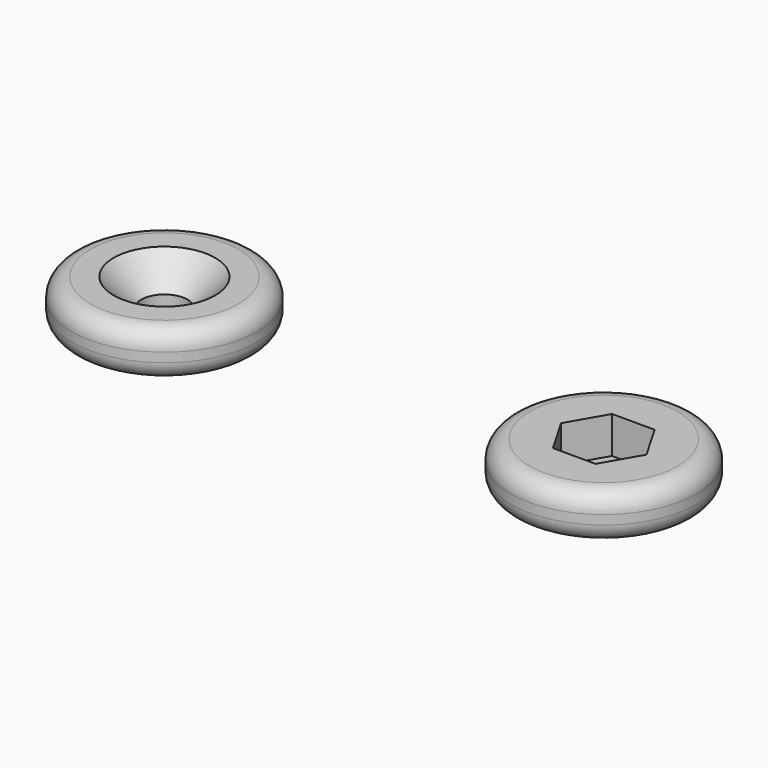
from build123d import *

# Parameters (mm, degrees)
F0_R     = 10
F0_R_2   = 2.5
F1_DEPTH = 5
F2_R     = 2.5
F3_DEPTH = 4
F4_R     = 2
F5_SIZE  = 3


with BuildPart() as f1:
    # F0 (on Top) → F1 (new body)
    with BuildSketch(Plane.XY):
        with Locations((-47.540908, 0)):
            Circle(F0_R)
        with Locations((-47.540908, 0)):
            Circle(F0_R_2, mode=Mode.SUBTRACT)
        Circle(F0_R)
        Circle(F0_R_2, mode=Mode.SUBTRACT)
    extrude(amount=F1_DEPTH)

    # F2 (on face) → F3 (cut)
    with BuildSketch(Plane.XY.offset(5)):
        Polygon((-2.309401, -4), (2.309401, -4), (4.618802, 0), (2.309401, 4), (-2.309401, 4), (-4.618802, 0), align=None)
        Circle(F2_R, mode=Mode.SUBTRACT)
    extrude(amount=-F3_DEPTH, mode=Mode.SUBTRACT)

    # F4
    f4_edges = [f1.edges().sort_by_distance(p)[0] for p in [
        (-57.540908, 0, 0),
        (-57.540908, 0, 5),
        (-10, 0, 5),
        (-10, 0, 0),
    ]]
    fillet(f4_edges, radius=F4_R)

    # F5
    f5_edges = [f1.edges().sort_by_distance(p)[0] for p in [
        (-50.040908, 0, 5),
    ]]
    chamfer(f5_edges, length=F5_SIZE)


solid = f1.part
